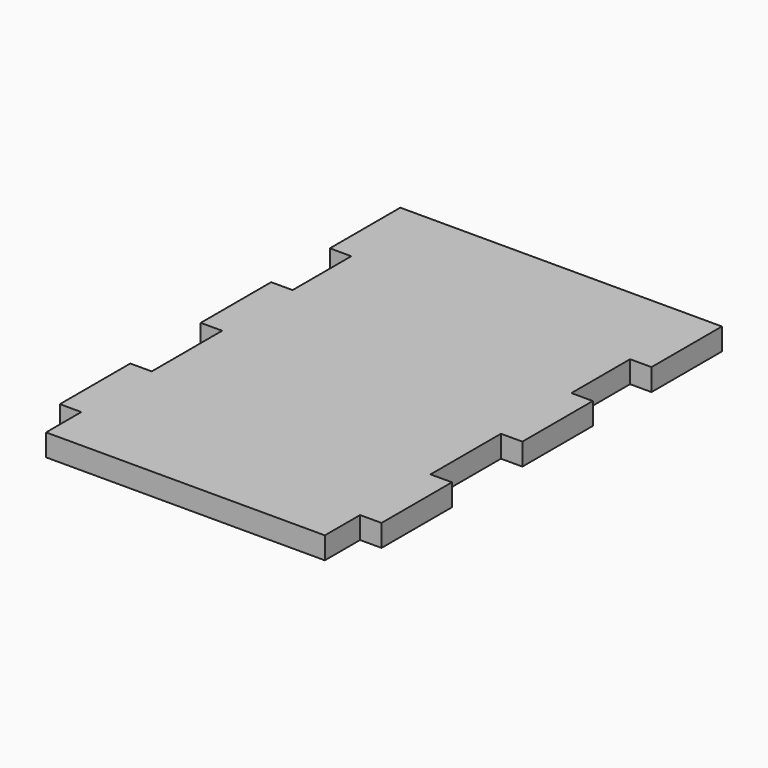
from build123d import *

# Parameters (mm, degrees)
F0_W     = 18.542
F0_H     = 76.2
F1_DEPTH = 19.05


with BuildPart() as f1:
    # F0 (on Top) → F1 (new body)
    with BuildSketch(Plane.XY):
        Polygon((17.93101, 245.654877), (-223.36899, 245.654877), (-223.36899, 169.454877), (-223.36899, 105.954877), (-223.36899, 29.754877), (-223.36899, -46.445123), (-223.36899, -122.645123), (-223.36899, -160.745123), (17.93101, -160.745123), (17.93101, -122.645123), (17.93101, -46.445123), (17.93101, 29.754877), (17.93101, 105.954877), (17.93101, 169.454877), align=None)
        with Locations((27.20201, 207.554877)):
            Rectangle(F0_W, F0_H)
        with Locations((27.20201, 67.854877)):
            Rectangle(F0_W, F0_H)
        with Locations((27.20201, -84.545123)):
            Rectangle(F0_W, F0_H)
        with Locations((-232.63999, -84.545123)):
            Rectangle(F0_W, F0_H)
        with Locations((-232.63999, 67.854877)):
            Rectangle(F0_W, F0_H)
        with Locations((-232.63999, 207.554877)):
            Rectangle(F0_W, F0_H)
    extrude(amount=F1_DEPTH)


solid = f1.part
